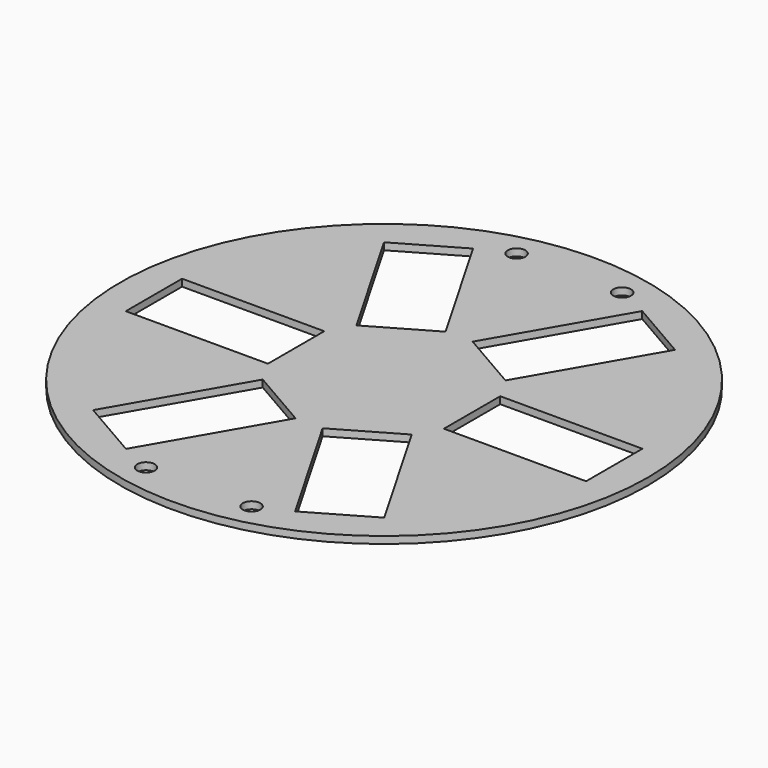
from build123d import *

# Parameters (mm, degrees)
F0_R     = 75
F0_R_2   = 2.5
F0_W     = 40.4
F0_H     = 20
F1_DEPTH = 2


with BuildPart() as f1:
    # F0 (on Top) → F1 (new body)
    with BuildSketch(Plane.XY):
        Circle(F0_R)
        with Locations((-15, -65.812233)):
            Circle(F0_R_2, mode=Mode.SUBTRACT)
        Polygon((-41.360254, -51.638061), (-21.160254, -16.650635), (-3.839746, -26.650635), (-24.039746, -61.638061), align=None, mode=Mode.SUBTRACT)
        with Locations((15, -65.812233)):
            Circle(F0_R_2, mode=Mode.SUBTRACT)
        Polygon((24.039746, -61.638061), (3.839746, -26.650635), (21.160254, -16.650635), (41.360254, -51.638061), align=None, mode=Mode.SUBTRACT)
        with Locations((-45.2, 0)):
            Rectangle(F0_W, F0_H, mode=Mode.SUBTRACT)
        Polygon((-24.039746, 61.638061), (-3.839746, 26.650635), (-21.160254, 16.650635), (-41.360254, 51.638061), align=None, mode=Mode.SUBTRACT)
        with Locations((-15, 65.812233)):
            Circle(F0_R_2, mode=Mode.SUBTRACT)
        with Locations((45.2, 0)):
            Rectangle(F0_W, F0_H, mode=Mode.SUBTRACT)
        Polygon((41.360254, 51.638061), (21.160254, 16.650635), (3.839746, 26.650635), (24.039746, 61.638061), align=None, mode=Mode.SUBTRACT)
        with Locations((15, 65.812233)):
            Circle(F0_R_2, mode=Mode.SUBTRACT)
    extrude(amount=F1_DEPTH)


solid = f1.part
